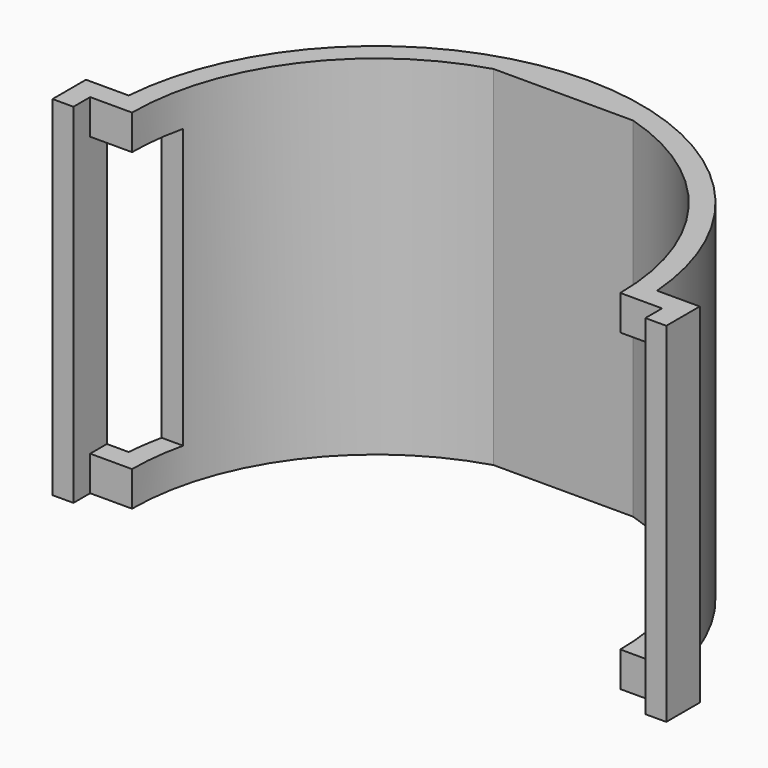
from build123d import *

# Parameters (mm, degrees)
F1_DEPTH = 25
F3_DEPTH = 25
F4_W     = 41
F4_H     = 20
F5_DEPTH = 4


with BuildPart() as f1:
    # F0 (on Top) → F1 (new body)
    with BuildSketch(Plane.XY):
        with BuildLine():
            ThreePointArc((-17.5, 0), (0, 17.5), (17.5, 0))
            Line((17.5, 0), (20.5, 0))
            Line((20.5, 0), (20.5, -1.5))
            Line((20.5, -1.5), (22, -1.5))
            Line((22, -1.5), (22, 1.5))
            Line((22, 1.5), (18.940697, 1.5))
            ThreePointArc((18.940697, 1.5), (0, 19), (-18.940697, 1.5))
            Line((-18.940697, 1.5), (-22, 1.5))
            Line((-22, 1.5), (-22, -1.5))
            Line((-22, -1.5), (-20.5, -1.5))
            Line((-20.5, -1.5), (-20.5, 0))
            Line((-20.5, 0), (-17.5, 0))
        make_face()
    extrude(amount=F1_DEPTH)

    # F2 (on face) → F3 (join)
    with BuildSketch(Plane.XY.offset(25)):
        with BuildLine():
            Line((5, 16.77051), (5, 18.330303))
            ThreePointArc((5, 18.330303), (0, 19), (-5, 18.330303))
            Line((-5, 18.330303), (-5, 16.77051))
            Line((-5, 16.77051), (5, 16.77051))
        make_face()
    extrude(amount=-F3_DEPTH)

    # F4 (on face) → F5 (cut)
    with BuildSketch(Plane.XZ):
        with Locations((0, 12.5)):
            Rectangle(F4_W, F4_H)
    extrude(amount=-F5_DEPTH, mode=Mode.SUBTRACT)


solid = f1.part
